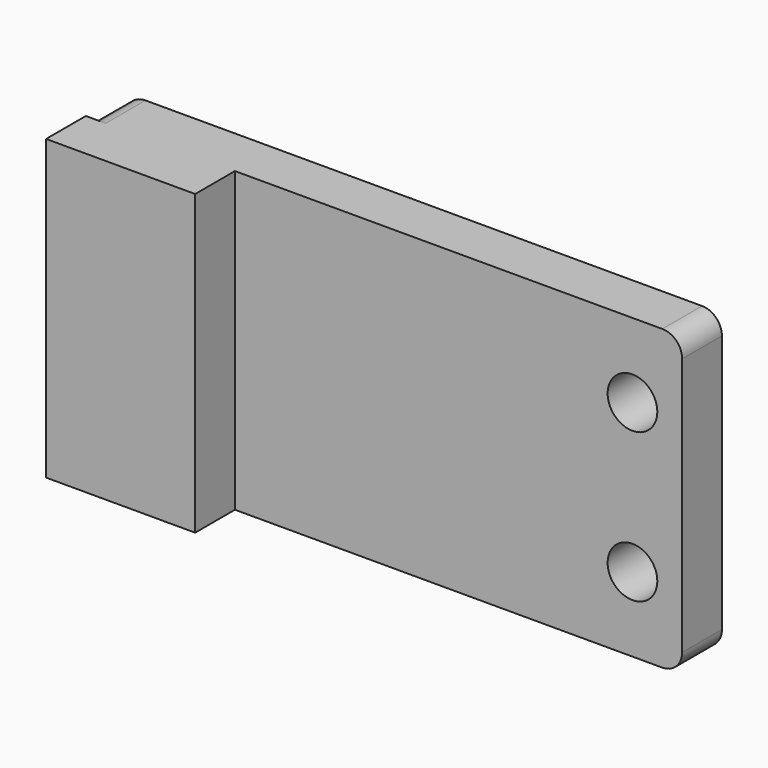
from build123d import *

# Parameters (mm, degrees)
F0_W     = 152.4
F0_H     = 76.2
F0_R     = 6.35
F1_DEPTH = 12.7
F2_R     = 5.08
F3_W     = 38.1
F3_H     = 76.2
F4_DEPTH = 12.7


with BuildPart() as f1:
    # F0 (on Front) → F1 (new body)
    with BuildSketch(Plane.XZ):
        with Locations((-0.517488, -6.741711)):
            Rectangle(F0_W, F0_H)
        with Locations((-64.017488, -25.791711)):
            Circle(F0_R, mode=Mode.SUBTRACT)
        with Locations((62.982512, -25.791711)):
            Circle(F0_R, mode=Mode.SUBTRACT)
        with Locations((-64.017488, 12.308289)):
            Circle(F0_R, mode=Mode.SUBTRACT)
        with Locations((62.982512, 12.308289)):
            Circle(F0_R, mode=Mode.SUBTRACT)
    extrude(amount=F1_DEPTH)

    # F2
    f2_edges = [f1.edges().sort_by_distance(p)[0] for p in [
        (-76.717488, -6.35, 31.358289),
        (-76.717488, -6.35, -44.841711),
        (75.682512, -6.35, -44.841711),
        (75.682512, -6.35, 31.358289),
    ]]
    fillet(f2_edges, radius=F2_R)

    # F3 (on face) → F4 (join)
    with BuildSketch(Plane.XZ.offset(12.7)):
        with Locations((-57.667488, -6.741711)):
            Rectangle(F3_W, F3_H)
    extrude(amount=F4_DEPTH)


solid = f1.part
